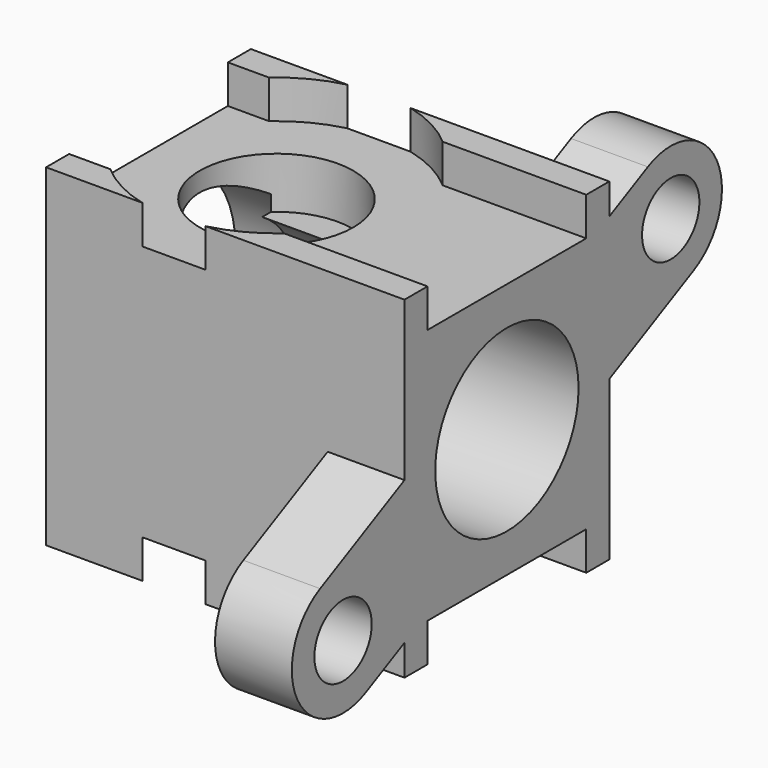
from build123d import *

# Parameters (mm, degrees)
SKETCH215_R     = 3
PAD127051_DEPTH = 2
PAD127048_DEPTH = 3
PAD127047_DEPTH = 3
SKETCH209_R     = 3.5
PAD127045_DEPTH = 30
SKETCH210_R     = 4.25
PAD127046_DEPTH = 3
SKETCH216_R     = 3
PAD127052_DEPTH = 2
SKETCH208_W     = 10
SKETCH208_H     = 13
PAD127044_DEPTH = 14
SKETCH207_R     = 1.4
PAD127043_DEPTH = 3


with BuildPart() as countersinktop:
    # Sketch215 → Pad127051 (new body)
    with BuildSketch(Plane(origin=(50, 160, 5), x_dir=(1, 0, 0), z_dir=(0, 0, 1))):
        Circle(SKETCH215_R)
    extrude(amount=-PAD127051_DEPTH)


with BuildPart() as steeringrodcutoutbottom:
    # Sketch212 → Pad127048 (new body)
    with BuildSketch(Plane(origin=(50, 160, -5), x_dir=(1, 0, 0), z_dir=(0, 0, 1))):
        with BuildLine():
            Line((9, 3.875), (3.392179, 3.875))
            ThreePointArc((3.392179, 3.875), (0, 5.15), (-3.392179, 3.875))
            Line((-3.392179, 3.875), (-8, 3.875))
            Line((-8, 3.875), (-8, -3.875))
            Line((-8, -3.875), (-3.392179, -3.875))
            ThreePointArc((-3.392179, -3.875), (0, -5.15), (3.392179, -3.875))
            Line((3.392179, -3.875), (9, -3.875))
            Line((9, -2.5), (9, -3.875))
            Line((12, -2.5), (9, -2.5))
            Line((12, 2.5), (12, -2.5))
            Line((9, 2.5), (12, 2.5))
            Line((9, 3.875), (9, 2.5))
        make_face()
    extrude(amount=-PAD127048_DEPTH)


with BuildPart() as steeringrodcutouttop:
    # Sketch211 → Pad127047 (new body)
    with BuildSketch(Plane(origin=(50, 160, 5), x_dir=(1, 0, 0), z_dir=(0, 0, 1))):
        with BuildLine():
            Line((9, 3.875), (3.392179, 3.875))
            ThreePointArc((3.392179, 3.875), (0, 5.15), (-3.392179, 3.875))
            Line((-3.392179, 3.875), (-8, 3.875))
            Line((-8, 3.875), (-8, -3.875))
            Line((-8, -3.875), (-3.392179, -3.875))
            ThreePointArc((-3.392179, -3.875), (0, -5.15), (3.392179, -3.875))
            Line((3.392179, -3.875), (9, -3.875))
            Line((9, -2.5), (9, -3.875))
            Line((12, -2.5), (9, -2.5))
            Line((12, 2.5), (12, -2.5))
            Line((9, 2.5), (12, 2.5))
            Line((9, 3.875), (9, 2.5))
        make_face()
    extrude(amount=PAD127047_DEPTH)


with BuildPart() as axlecutout:
    # Sketch209 → Pad127045 (new body)
    with BuildSketch(Plane(origin=(59, 160, 0), x_dir=(0, 1, 0), z_dir=(1, 0, 0))):
        Circle(SKETCH209_R)
    extrude(amount=-PAD127045_DEPTH)


with BuildPart() as bearingcutout:
    # Sketch210 → Pad127046 (new body)
    with BuildSketch(Plane(origin=(45, 160, 0), x_dir=(0, 1, 0), z_dir=(1, 0, 0))):
        Circle(SKETCH210_R)
    extrude(amount=PAD127046_DEPTH)


with BuildPart() as cutouts:
    # Sketch216 → Pad127052 (new body)
    with BuildSketch(Plane(origin=(50, 160, -5), x_dir=(1, 0, 0), z_dir=(0, 0, 1))):
        Circle(SKETCH216_R)
    extrude(amount=PAD127052_DEPTH)

    # Fusion004020029: union CountersinkTop, SteeringRodCutoutBottom, SteeringRodCutoutTop, AxleCutout, BearingCutout
    add(countersinktop.part)
    add(steeringrodcutoutbottom.part)
    add(steeringrodcutouttop.part)
    add(axlecutout.part)
    add(bearingcutout.part)


with BuildPart() as mainbody:
    # Sketch208 → Pad127044 (new body)
    with BuildSketch(Plane(origin=(59, 160, 0), x_dir=(0, 1, 0), z_dir=(1, 0, 0))):
        Rectangle(SKETCH208_W, SKETCH208_H)
    extrude(amount=-PAD127044_DEPTH)


with BuildPart() as steeringcolumn:
    # Sketch207 → Pad127043 (new body)
    with BuildSketch(Plane(origin=(59, 160, 0), x_dir=(0, 1, 0), z_dir=(1, 0, 0))):
        with BuildLine():
            ThreePointArc((9.118035, 1.763933), (10.236068, 5.118034), (6.881967, 6.236069))
            Line((6.881967, 6.236069), (-9.118034, -1.763932))
            ThreePointArc((-9.118034, -1.763932), (-10.236068, -5.118034), (-6.881966, -6.236068))
            Line((-6.881966, -6.236068), (9.118035, 1.763933))
        make_face()
        with Locations((8, 4)):
            Circle(SKETCH207_R, mode=Mode.SUBTRACT)
        with Locations((-8, -4)):
            Circle(SKETCH207_R, mode=Mode.SUBTRACT)
    extrude(amount=-PAD127043_DEPTH)

    # Fusion004020028: union MainBody
    add(mainbody.part)

    # Cut007019028: cut cutouts
    add(cutouts.part, mode=Mode.SUBTRACT)


solid = steeringcolumn.part
